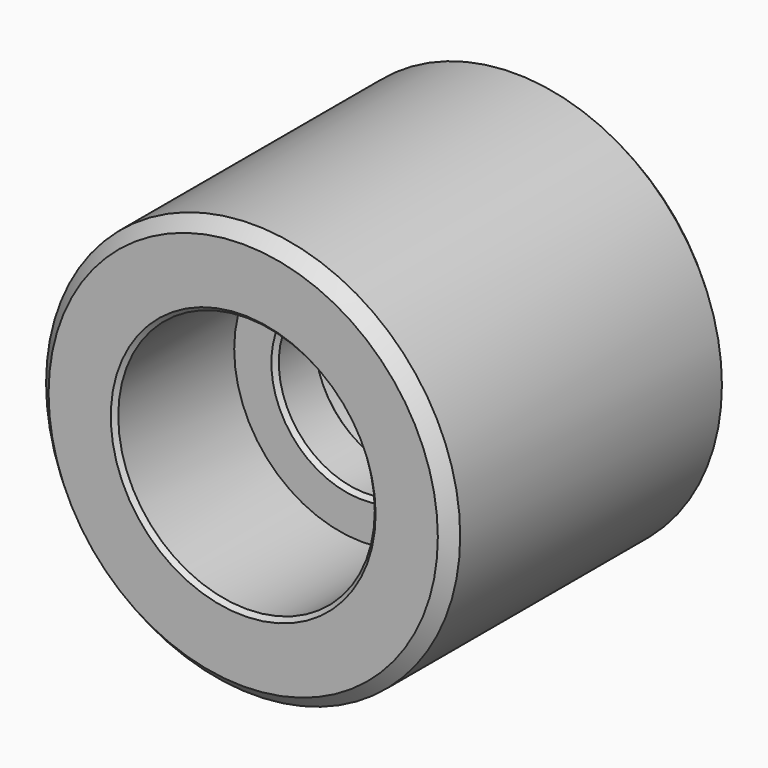
from build123d import *

# Parameters (mm, degrees)
F0_R        = 30.975
F0_R_2      = 21
F1_DEPTH    = 6.5
F0_R_3      = 50
F2_DEPTH    = 42.5
F2_FACE_R   = 50
F2_FACE_R_2 = 30.975
F3_DEPTH    = 42.5
F4_SIZE     = 3
F5_SIZE     = 1


with BuildPart() as f1:
    # F0 (on Front) → F1 (new body, symmetric)
    with BuildSketch(Plane.XZ):
        Circle(F0_R)
        Circle(F0_R_2, mode=Mode.SUBTRACT)
    extrude(amount=F1_DEPTH, both=True)

    # F0 (on Front) → F2 (join)
    with BuildSketch(Plane.XZ):
        Circle(F0_R_3)
        Circle(F0_R, mode=Mode.SUBTRACT)
    extrude(amount=F2_DEPTH)

    # F2_face (on face) → F3 (join)
    with BuildSketch(Plane(origin=(0, 0, 0), x_dir=(1, 0, 0), z_dir=(0, 1, 0))):
        Circle(F2_FACE_R)
        Circle(F2_FACE_R_2, mode=Mode.SUBTRACT)
    extrude(amount=F3_DEPTH)

    # F4
    f4_edges = [f1.edges().sort_by_distance(p)[0] for p in [
        (-50, 42.5, 0),
        (-50, -42.5, 0),
    ]]
    chamfer(f4_edges, length=F4_SIZE)

    # F5
    f5_edges = [f1.edges().sort_by_distance(p)[0] for p in [
        (-30.975, 42.5, 0),
        (-21, 6.5, 0),
        (-21, -6.5, 0),
        (-30.975, -42.5, 0),
    ]]
    chamfer(f5_edges, length=F5_SIZE)


solid = f1.part
